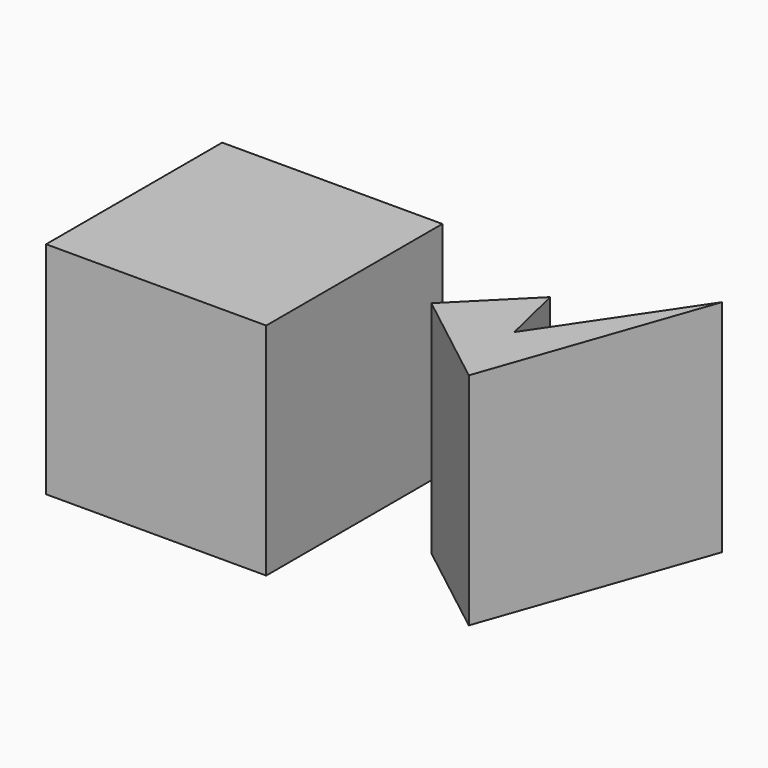
from build123d import *

# Parameters (mm, degrees)
BOX001_W      = 10
BOX001_H      = 10
BOX001_DEPTH  = 10
EXTRUDE_DEPTH = 10


with BuildPart() as cube001:
    # Box001 → Box001 (new body)
    with BuildSketch(Plane.XY):
        with Locations((5, 5)):
            Rectangle(BOX001_W, BOX001_H)
    extrude(amount=BOX001_DEPTH)


with BuildPart() as extrude_body:
    # Wire → Extrude (new body)
    with BuildSketch(Plane(origin=(16.5, 11, 0), x_dir=(1, 0, 0), z_dir=(0, 0, 1))):
        Polygon((0, 0), (-3, -3), (1.5, -6.5), (5, 3.5), (0.685478, -2.896187), align=None)
    extrude(amount=EXTRUDE_DEPTH)


with BuildPart() as extrude_body_1:
    # Extrude placement: moved
    add(extrude_body.part.moved(Location((0, -3, 0))))


solid = Compound([cube001.part, extrude_body_1.part])
